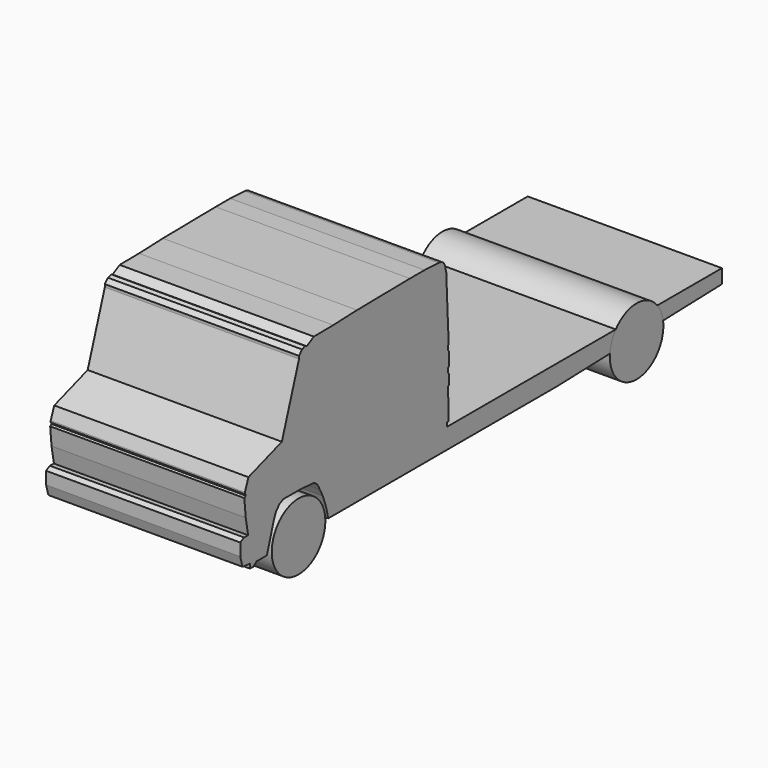
from build123d import *

# Parameters (mm, degrees)
F1_DEPTH = 2206
F0_R     = 380.518397
F2_DEPTH = 2206
F4_DEPTH = 2206


with BuildPart() as f1:
    # F0 (on Right) → F1 (new body)
    with BuildSketch(Plane.YZ):
        Polygon((-2009.809494, -605.712593), (-1974.88451, -795.305073), (-2034.067154, -792.608976), (-2086.954594, -821.990967), (-2086.954594, -963.024616), (-2055.07493, -1078.061223), (-1948.156953, -1088.748813), (-1948.156953, -1139.961123), (-1903.138876, -1139.961123), (-1852.493525, -1104.298949), (-1708.531022, -1104.298949), (-1609.160185, -788.3479), (-1580.768466, -722.100675), (-1533.449054, -665.317357), (-1476.665854, -636.925697), (-1419.882536, -636.925697), (-1240.068555, -636.925697), (-1057.888746, -648.75555), (-1036.14068, -654.135108), (-1019.36996, -663.16551), (-998.72905, -681.226313), (-983.248353, -701.867163), (-957.44729, -750.889242), (-914.875448, -833.452821), (-869.723499, -957.2981), (-837.703872, -1088.748813), (2405.626749, -1088.748813), (4752.697468, -1018.38696), (4752.697468, -858.329475), (850.127637, -858.329475), (850.127637, -812.057912), (870.276332, -812.057912), (870.276332, -576.891184), (863.666773, -565.826952), (863.666773, -459.609509), (875.765383, -451.974571), (875.765383, -336.853117), (863.666773, -325.079352), (863.666773, -274.415493), (873.975813, -263.076127), (873.975813, -109.184742), (863.666773, -97.845316), (863.143861, -46.283007), (872.274971, -46.283007), (872.274971, 88.157274), (863.143861, 97.304344), (863.143861, 136.111572), (863.143861, 151.634693), (837.309351, 705.209817), (837.587416, 677.79088), (835.03896, 691.606283), (826.544046, 743.264735), (821.871877, 762.486398), (814.911127, 778.826952), (805.184186, 795.202971), (794.06774, 806.338847), (780.635357, 815.560997), (754.696906, 825.99014), (733.469546, 828.346193), (528.450668, 838.733733), (321.314812, 838.733733), (-429.070771, 828.346193), (-766.898036, 815.560997), (-1042.410256, 812.76693), (-1142.840266, 756.972611), (-1162.369728, 766.737342), (-1208.752155, 752.090216), (-1252.693415, 705.707729), (-1252.693415, 673.972368), (-1496.420741, -54.229099), (-1970.862031, -215.741038), (-2021.334648, -346.969426), (-2021.334648, -366.177976), (-2009.809494, -366.177976), (-2009.809494, -385.386497), (-2029.017925, -400.753319), align=None)
    extrude(amount=F1_DEPTH)

    # F0 (on Right) → F2 (join)
    with BuildSketch(Plane.YZ):
        Polygon((-2009.809494, -605.712593), (-1974.88451, -795.305073), (-2034.067154, -792.608976), (-2086.954594, -821.990967), (-2086.954594, -963.024616), (-2055.07493, -1078.061223), (-1948.156953, -1088.748813), (-1948.156953, -1139.961123), (-1903.138876, -1139.961123), (-1852.493525, -1104.298949), (-1708.531022, -1104.298949), (-1609.160185, -788.3479), (-1580.768466, -722.100675), (-1533.449054, -665.317357), (-1476.665854, -636.925697), (-1419.882536, -636.925697), (-1240.068555, -636.925697), (-1057.888746, -648.75555), (-1036.14068, -654.135108), (-1019.36996, -663.16551), (-998.72905, -681.226313), (-983.248353, -701.867163), (-957.44729, -750.889242), (-914.875448, -833.452821), (-869.723499, -957.2981), (-837.703872, -1088.748813), (2405.626749, -1088.748813), (4752.697468, -1018.38696), (4752.697468, -858.329475), (850.127637, -858.329475), (850.127637, -812.057912), (870.276332, -812.057912), (870.276332, -576.891184), (863.666773, -565.826952), (863.666773, -459.609509), (875.765383, -451.974571), (875.765383, -336.853117), (863.666773, -325.079352), (863.666773, -274.415493), (873.975813, -263.076127), (873.975813, -109.184742), (863.666773, -97.845316), (863.143861, -46.283007), (872.274971, -46.283007), (872.274971, 88.157274), (863.143861, 97.304344), (863.143861, 136.111572), (863.143861, 151.634693), (837.309351, 705.209817), (837.587416, 677.79088), (835.03896, 691.606283), (826.544046, 743.264735), (821.871877, 762.486398), (814.911127, 778.826952), (805.184186, 795.202971), (794.06774, 806.338847), (780.635357, 815.560997), (754.696906, 825.99014), (733.469546, 828.346193), (528.450668, 838.733733), (321.314812, 838.733733), (-429.070771, 828.346193), (-766.898036, 815.560997), (-1042.410256, 812.76693), (-1142.840266, 756.972611), (-1162.369728, 766.737342), (-1208.752155, 752.090216), (-1252.693415, 705.707729), (-1252.693415, 673.972368), (-1496.420741, -54.229099), (-1970.862031, -215.741038), (-2021.334648, -346.969426), (-2021.334648, -366.177976), (-2009.809494, -366.177976), (-2009.809494, -385.386497), (-2029.017925, -400.753319), align=None)
        with Locations((-1259.195566, -1097.974062)):
            Circle(F0_R)
    extrude(amount=F2_DEPTH)


with BuildPart() as f4:
    # F3 (on face) → F4 (new body)
    with BuildSketch(Plane.YZ.offset(2206)):
        with BuildLine():
            Line((3161.643114, -1066.084514), (3917.37456, -1043.428757))
            ThreePointArc((3917.37456, -1043.428757), (3889.376269, -945.403012), (3836.355989, -858.329475))
            Line((3836.355989, -858.329475), (3245.252878, -858.329475))
            ThreePointArc((3245.252878, -858.329475), (3187.817316, -955.916521), (3161.643114, -1066.084514))
        make_face()
        with BuildLine():
            Line((3245.252878, -858.329475), (3836.355989, -858.329475))
            ThreePointArc((3836.355989, -858.329475), (3540.804434, -717.474062), (3245.252878, -858.329475))
        make_face()
        with BuildLine():
            ThreePointArc((3160.304434, -1097.974062), (3540.804434, -1478.474062), (3921.304434, -1097.974062))
            ThreePointArc((3921.304434, -1097.974062), (3920.320694, -1070.630716), (3917.37456, -1043.428757))
            Line((3917.37456, -1043.428757), (3161.643114, -1066.084514))
            ThreePointArc((3161.643114, -1066.084514), (3160.639251, -1082.015245), (3160.304434, -1097.974062))
        make_face()
    extrude(amount=-F4_DEPTH)


solid = Compound([f1.part, f4.part])
